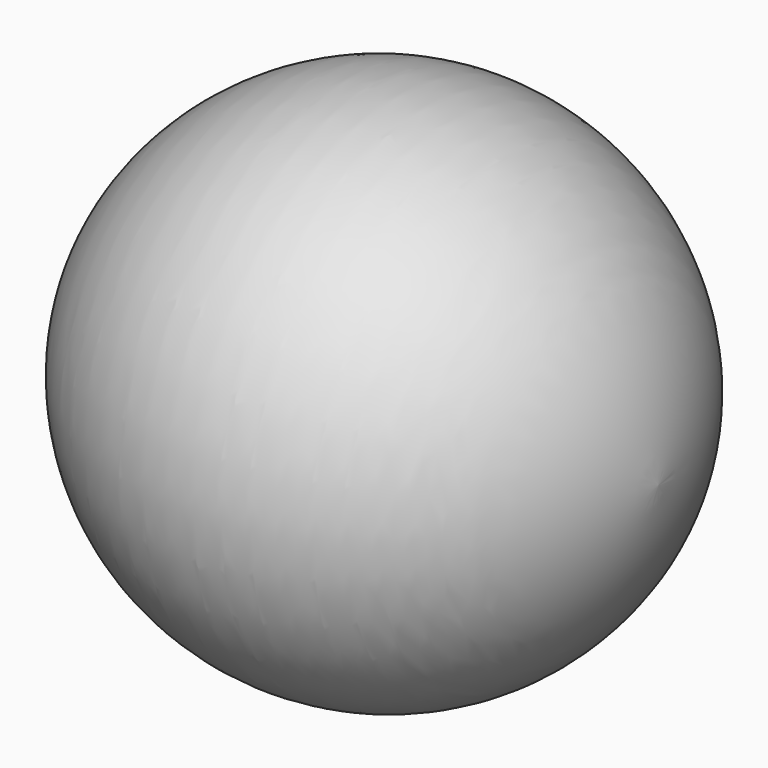
from build123d import *


with BuildPart() as part:
    # Sketch (on XY_Plane of Origin) → Revolution (revolve)
    with BuildSketch(Plane.XY):
        with BuildLine():
            ThreePointArc((0.772978, 0), (0.024525, 0.701852), (-0.723928, 0))
            Line((-0.723928, 0), (0.772978, 0))
        make_face()
    revolve(axis=Axis((0, 0, 0), (1, 0, 0)))


solid = part.part
